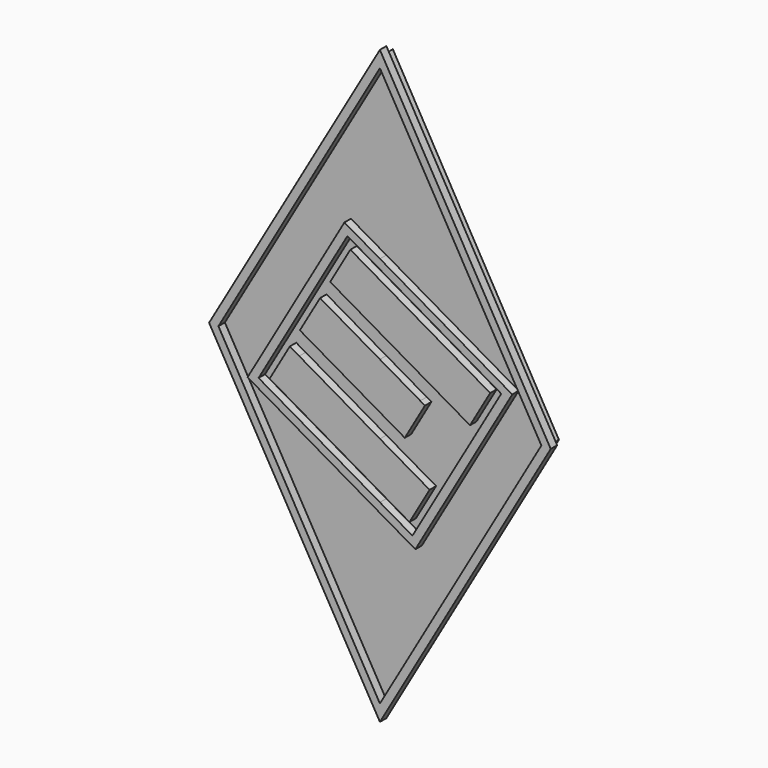
from build123d import *

# Parameters (mm, degrees)
F1_DEPTH = 2
F3_DEPTH = 2


with BuildPart() as f1:
    # F0 (on Front) → F1 (new body)
    with BuildSketch(Plane.XZ):
        Polygon((0, 73.2820323028), (-42.3094010768, 0), (0, -73.2820323028), (42.3094010768, 0), align=None)
        Polygon((40, 0), (0, -69.2820323028), (-40, 0), (0, 69.2820323028), align=None, mode=Mode.SUBTRACT)
    extrude(amount=F1_DEPTH)


with BuildPart() as f1b:
    # F0 (on Front) → F1, piece 2 (new body)
    with BuildSketch(Plane.XZ):
        Polygon((-27.7128129211, 0), (-25.4034118443, 0), (-8.0525588833, 30.0525588833), (0, 25.4034118443), (0, 27.7128129211), (-8.7846096908, 32.7846096908), align=None)
        Polygon((30.0525588833, 8.0525588833), (25.4034118443, 0), (27.7128129211, 0), (32.7846096908, 8.7846096908), (0, 27.7128129211), (0, 25.4034118443), align=None)
        Polygon((8.0525588833, -30.0525588833), (0, -25.4034118443), (0, -27.7128129211), (8.7846096908, -32.7846096908), (27.7128129211, 0), (25.4034118443, 0), align=None)
        Polygon((0, -27.7128129211), (0, -25.4034118443), (-30.0525588833, -8.0525588833), (-25.4034118443, 0), (-27.7128129211, 0), (-32.7846096908, -8.7846096908), align=None)
    extrude(amount=F1_DEPTH)


with BuildPart() as f1c:
    # F0 (on Front) → F1, piece 3 (new body)
    with BuildSketch(Plane.XZ):
        Polygon((-19.8205080757, 5.6698729811), (-10, 0), (0, 0), (0, 5.7735026919), (-14.8205080757, 14.3301270189), align=None)
        Polygon((-10, 0), (0, -5.7735026919), (0, 0), align=None)
        Polygon((0, 0), (0, -5.7735026919), (6.1602540378, -9.3301270189), (11.1602540378, -0.6698729811), (10, 0), align=None)
        Polygon((0, 5.7735026919), (0, 0), (10, 0), align=None)
    extrude(amount=F1_DEPTH)


with BuildPart() as f1d:
    # F0 (on Front) → F1, piece 4 (new body)
    with BuildSketch(Plane.XZ):
        Polygon((20, 0), (23.0940107676, 0), (27.3205080757, 7.3205080757), (0, 23.0940107676), (0, 11.5470053838), align=None)
        Polygon((-12.3205080757, 18.6602540378), (0, 11.5470053838), (0, 23.0940107676), (-7.3205080757, 27.3205080757), align=None)
        Polygon((22.3205080757, -1.3397459622), (23.0940107676, 0), (20, 0), align=None)
    extrude(amount=F1_DEPTH)


with BuildPart() as f1e:
    # F0 (on Front) → F1, piece 5 (new body)
    with BuildSketch(Plane.XZ):
        Polygon((0, -23.0940107676), (7.3205080757, -27.3205080757), (12.3205080757, -18.6602540378), (0, -11.5470053838), align=None)
        Polygon((-27.3205080757, -7.3205080757), (0, -23.0940107676), (0, -11.5470053838), (-20, 0), (-23.0940107676, 0), align=None)
        Polygon((-22.3205080757, 1.3397459622), (-23.0940107676, 0), (-20, 0), align=None)
    extrude(amount=F1_DEPTH)


with BuildPart() as f3:
    # F2 (on Front) → F3 (new body)
    with BuildSketch(Plane.XZ):
        Polygon((0, 71.7891380191), (-41.0352908075, 0), (0, -71.0530355573), (41.1385819316, 0), align=None)
    extrude(amount=-F3_DEPTH)


solid = Compound([f1.part, f1b.part, f1c.part, f1d.part, f1e.part, f3.part])
